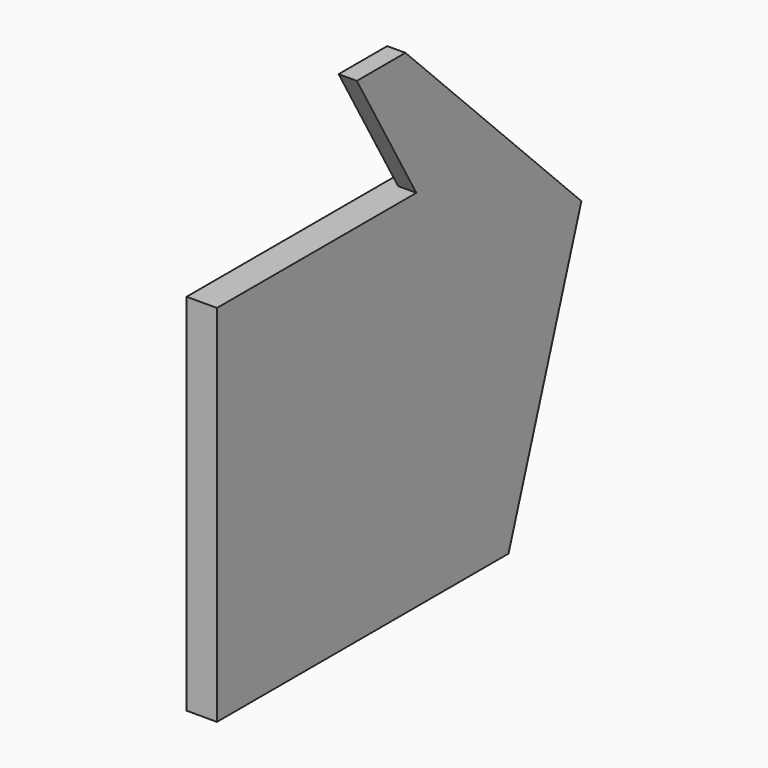
from build123d import *

# Parameters (mm, degrees)
F1_DEPTH = 12.7
F2_DEPTH = 7.62


with BuildPart() as f1:
    # F0 (on Right) → F1 (new body)
    with BuildSketch(Plane.YZ):
        Polygon((-23.564721, 15.782364), (-23.564721, 53.882364), (-71.737738, 53.882364), (-175.964721, 53.882364), (-175.964721, -98.517636), (-23.564721, -98.517636), align=None)
        Polygon((14.535279, 15.782364), (-23.564721, 53.882364), (-23.564721, 15.782364), align=None)
        Polygon((14.535279, 15.782364), (-23.564721, 15.782364), (-23.564721, -98.517636), align=None)
    extrude(amount=-F1_DEPTH)

    # F0 (on Right) → F2 (join)
    with BuildSketch(Plane.YZ):
        Polygon((-71.737738, 53.882364), (-23.564721, 53.882364), (-77.446257, 107.763901), (-102.846257, 107.763901), align=None)
    extrude(amount=-F2_DEPTH)


solid = f1.part
